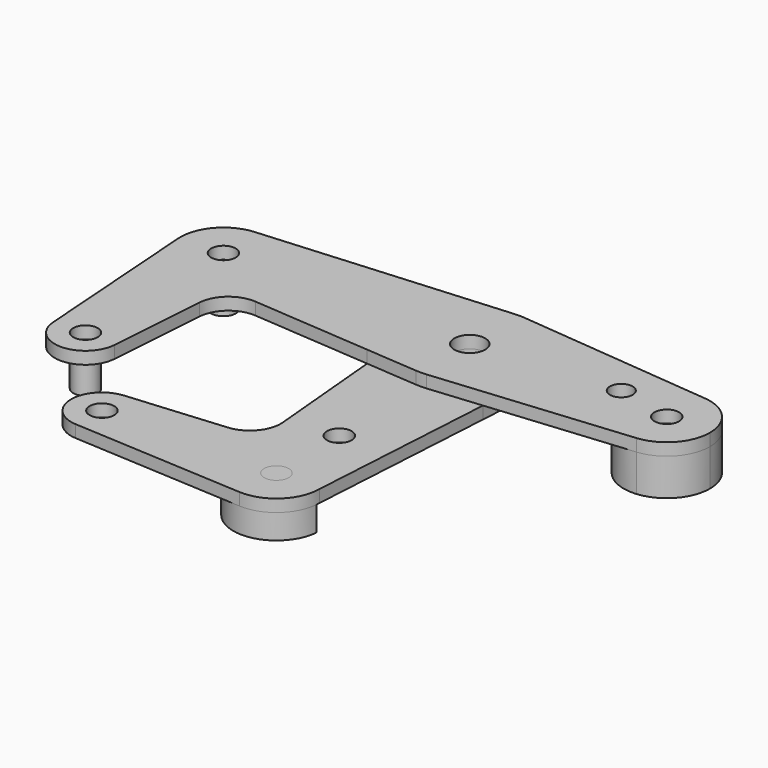
from build123d import *

# Parameters (mm, degrees)
F0_R     = 3.9751
F0_R_2   = 2.9368273142
F0_R_3   = 3.175
F1_DEPTH = 3.175
F2_DEPTH = 3.175
F6_DEPTH = 9.525


with BuildPart() as f1:
    # F0 (on Top) → F1 (new body)
    with BuildSketch(Plane.XY):
        with BuildLine():
            Line((-15.8104636817, -1.4299871225), (-14.5992326801, -14.8218026558))
            Line((-14.5992326801, -14.8218026558), (-1.190625, -15.8302885984))
            ThreePointArc((-1.190625, -15.8302885984), (-11.1400819, -11.3099160147), (-15.8104636817, -1.4299871225))
        make_face()
        with BuildLine():
            ThreePointArc((1.48828125, 15.8050828508), (0.1493607821, 15.87429735), (-1.190625, 15.8302885984))
            ThreePointArc((-1.190625, 15.8302885984), (-12.1135681606, 10.2604625343), (-15.8104636817, -1.4299871225))
            ThreePointArc((-15.8104636817, -1.4299871225), (-11.1400819, -11.3099160147), (-1.190625, -15.8302885984))
            ThreePointArc((-1.190625, -15.8302885984), (0.1493607821, -15.87429735), (1.48828125, -15.8050828508))
            ThreePointArc((1.48828125, -15.8050828508), (11.4125664299, -11.034897031), (15.8462028679, -0.955761303))
            ThreePointArc((15.8462028679, -0.955761303), (15.8677990838, -0.478097517), (15.875, 0))
            ThreePointArc((15.875, 0), (11.7397208196, 10.6861864142), (1.48828125, 15.8050828508))
        make_face()
        Circle(F0_R, mode=Mode.SUBTRACT)
        with BuildLine():
            ThreePointArc((15.8462028679, -0.955761303), (11.4125664299, -11.034897031), (1.48828125, -15.8050828508))
            Line((1.48828125, -15.8050828508), (15.0274645187, -14.5301694075))
            Line((15.0274645187, -14.5301694075), (15.8462028679, -0.955761303))
        make_face()
        with BuildLine():
            Line((51.841796875, 11.0635579956), (1.48828125, 15.8050828508))
            ThreePointArc((1.48828125, 15.8050828508), (11.7397208196, 10.6861864142), (15.875, 0))
            ThreePointArc((15.875, 0), (15.8677990838, -0.478097517), (15.8462028679, -0.955761303))
            Line((15.8462028679, -0.955761303), (15.0274645187, -14.5301694075))
            Line((15.0274645187, -14.5301694075), (51.841796875, -11.0635579956))
            ThreePointArc((51.841796875, -11.0635579956), (39.6875, 0), (51.841796875, 11.0635579956))
        make_face()
        with Locations((36.5252, 3.175)):
            Circle(F0_R_2, mode=Mode.SUBTRACT)
        with BuildLine():
            ThreePointArc((61.9125, 0), (59.0178045737, 7.4803304899), (51.841796875, 11.0635579956))
            ThreePointArc((51.841796875, 11.0635579956), (39.6875, 0), (51.841796875, -11.0635579956))
            ThreePointArc((51.841796875, -11.0635579956), (59.0178045737, -7.4803304899), (61.9125, 0))
        make_face()
        with Locations((50.8, 0)):
            Circle(F0_R_3, mode=Mode.SUBTRACT)
        with BuildLine():
            ThreePointArc((-71.417225382, -45.0169642857), (-63.7836633398, -36.5175702739), (-55.5625, -44.45))
            ThreePointArc((-55.5625, -44.45), (-55.5675702739, -44.7336633398), (-55.582774618, -45.0169642857))
            Line((-55.582774618, -45.0169642857), (-53.7823906678, -19.875970633))
            ThreePointArc((-53.7823906678, -19.875970633), (-51.0474657939, -14.4257039105), (-45.2562327252, -12.5160335315))
            Line((-45.2562327252, -12.5160335315), (-14.5992326801, -14.8218026558))
            Line((-14.5992326801, -14.8218026558), (-15.8104636817, -1.4299871225))
            ThreePointArc((-15.8104636817, -1.4299871225), (-12.1135681606, 10.2604625343), (-1.190625, 15.8302885984))
            Line((-1.190625, 15.8302885984), (-64.3334375, 11.0812020189))
            ThreePointArc((-64.3334375, 11.0812020189), (-55.9426829486, 8.1470617547), (-52.3875, 0))
            ThreePointArc((-52.3875, 0), (-63.1028713243, -11.1054016166), (-74.5841155347, -0.79375))
            Line((-74.5841155347, -0.79375), (-71.417225382, -45.0169642857))
        make_face()
        with BuildLine():
            ThreePointArc((-55.582774618, -45.0169642857), (-55.5675702739, -44.7336633398), (-55.5625, -44.45))
            ThreePointArc((-55.5625, -44.45), (-63.7836633398, -36.5175702739), (-71.417225382, -45.0169642857))
            ThreePointArc((-71.417225382, -45.0169642857), (-63.5, -52.3875), (-55.582774618, -45.0169642857))
        make_face()
        with Locations((-63.5, -44.45)):
            Circle(F0_R_3, mode=Mode.SUBTRACT)
        with BuildLine():
            ThreePointArc((-64.3334375, 11.0812020189), (-71.9119343166, 7.2613371567), (-74.5841155347, -0.79375))
            ThreePointArc((-74.5841155347, -0.79375), (-63.1028713243, -11.1054016166), (-52.3875, 0))
            ThreePointArc((-52.3875, 0), (-55.9426829486, 8.1470617547), (-64.3334375, 11.0812020189))
        make_face()
        with Locations((-63.5, 0)):
            Circle(F0_R_3, mode=Mode.SUBTRACT)
    extrude(amount=F1_DEPTH)


with BuildPart() as f2:
    # F0 (on Top) → F2 (new body)
    with BuildSketch(Plane.XY):
        with BuildLine():
            Line((-1.190625, -15.8302885984), (-14.5992326801, -14.8218026558))
            Line((-14.5992326801, -14.8218026558), (-11.8292558733, -45.4476852336))
            ThreePointArc((-11.8292558733, -45.4476852336), (-13.6510903541, -51.2671458673), (-19.0593540531, -54.0842164564))
            Line((-19.0593540531, -54.0842164564), (-44.1753266645, -56.2652083861))
            ThreePointArc((-44.1753266645, -56.2652083861), (-38.1242534608, -58.3225456153), (-35.5511433259, -64.1729496719))
            ThreePointArc((-35.5511433259, -64.1729496719), (-38.0363062259, -69.941478635), (-43.9356287176, -72.0978541073))
            Line((-43.9356287176, -72.0978541073), (0.3355771258, -74.5948662095))
            ThreePointArc((0.3355771258, -74.5948662095), (-6.6719152658, -55.4240594516), (12.0738566741, -63.5))
            Line((12.0738566741, -63.5), (15.0274645187, -14.5301694075))
            Line((15.0274645187, -14.5301694075), (1.48828125, -15.8050828508))
            ThreePointArc((1.48828125, -15.8050828508), (0.1493607821, -15.87429735), (-1.190625, -15.8302885984))
        make_face()
        with Locations((0.6487234837, -42.8498)):
            Circle(F0_R_3, mode=Mode.SUBTRACT)
        with BuildLine():
            ThreePointArc((0.3355771258, -74.5948662095), (8.5946286141, -71.5759405484), (12.0738566741, -63.5))
            ThreePointArc((12.0738566741, -63.5), (-6.6719152658, -55.4240594516), (0.3355771258, -74.5948662095))
        make_face()
        with Locations((0.9613566741, -63.5)):
            Circle(F0_R_3, mode=Mode.SUBTRACT)
        with BuildLine():
            ThreePointArc((-35.5511433259, -64.1729496719), (-38.1242534608, -58.3225456153), (-44.1753266645, -56.2652083861))
            ThreePointArc((-44.1753266645, -56.2652083861), (-51.42523383, -64.2931054869), (-43.9356287176, -72.0978541073))
            ThreePointArc((-43.9356287176, -72.0978541073), (-38.0363062259, -69.941478635), (-35.5511433259, -64.1729496719))
        make_face()
        with Locations((-43.4886433259, -64.1729496719)):
            Circle(F0_R_3, mode=Mode.SUBTRACT)
        with BuildLine():
            ThreePointArc((15.8462028679, -0.955761303), (11.4125664299, -11.034897031), (1.48828125, -15.8050828508))
            Line((1.48828125, -15.8050828508), (15.0274645187, -14.5301694075))
            Line((15.0274645187, -14.5301694075), (15.8462028679, -0.955761303))
        make_face()
        with BuildLine():
            ThreePointArc((1.48828125, 15.8050828508), (0.1493607821, 15.87429735), (-1.190625, 15.8302885984))
            ThreePointArc((-1.190625, 15.8302885984), (-12.1135681606, 10.2604625343), (-15.8104636817, -1.4299871225))
            ThreePointArc((-15.8104636817, -1.4299871225), (-11.1400819, -11.3099160147), (-1.190625, -15.8302885984))
            ThreePointArc((-1.190625, -15.8302885984), (0.1493607821, -15.87429735), (1.48828125, -15.8050828508))
            ThreePointArc((1.48828125, -15.8050828508), (11.4125664299, -11.034897031), (15.8462028679, -0.955761303))
            ThreePointArc((15.8462028679, -0.955761303), (15.8677990838, -0.478097517), (15.875, 0))
            ThreePointArc((15.875, 0), (11.7397208196, 10.6861864142), (1.48828125, 15.8050828508))
        make_face()
        Circle(F0_R, mode=Mode.SUBTRACT)
        with BuildLine():
            Line((-15.8104636817, -1.4299871225), (-14.5992326801, -14.8218026558))
            Line((-14.5992326801, -14.8218026558), (-1.190625, -15.8302885984))
            ThreePointArc((-1.190625, -15.8302885984), (-11.1400819, -11.3099160147), (-15.8104636817, -1.4299871225))
        make_face()
    extrude(amount=-F2_DEPTH)


with BuildPart() as f6:
    # F3 (on face) → F6 (new body, through all)
    with BuildSketch(Plane.XY):
        with BuildLine():
            Line((12.031224592, -64.4724610689), (-1.9671503943, -52.7803217119))
            ThreePointArc((-1.9671503943, -52.7803217119), (-6.1623340692, -72.0288150668), (12.031224592, -64.4724610689))
        make_face()
    extrude(amount=-F6_DEPTH)

    # F7: cut F2
    add(f2.part, mode=Mode.SUBTRACT)


with BuildPart() as f6b:
    # F0 (on Top) → F6, piece 2 (new body, through all)
    with BuildSketch(Plane.XY):
        with BuildLine():
            ThreePointArc((61.9125, 0), (59.0178045737, 7.4803304899), (51.841796875, 11.0635579956))
            ThreePointArc((51.841796875, 11.0635579956), (39.6875, 0), (51.841796875, -11.0635579956))
            ThreePointArc((51.841796875, -11.0635579956), (59.0178045737, -7.4803304899), (61.9125, 0))
        make_face()
        with Locations((50.8, 0)):
            Circle(F0_R_3, mode=Mode.SUBTRACT)
        with Locations((50.8, 0)):
            Circle(F0_R_3)
    extrude(amount=-F6_DEPTH)


with BuildPart() as f6c:
    # F0 (on Top) → F6, piece 3 (new body, through all)
    with BuildSketch(Plane.XY):
        with Locations((-63.5, -44.45)):
            Circle(F0_R_3)
    extrude(amount=-F6_DEPTH)


with BuildPart() as f6d:
    # F0 (on Top) → F6, piece 4 (new body, through all)
    with BuildSketch(Plane.XY):
        with Locations((-63.5, 0)):
            Circle(F0_R_3)
    extrude(amount=-F6_DEPTH)


solid = Compound([f1.part, f2.part, f6.part, f6b.part, f6c.part, f6d.part])
